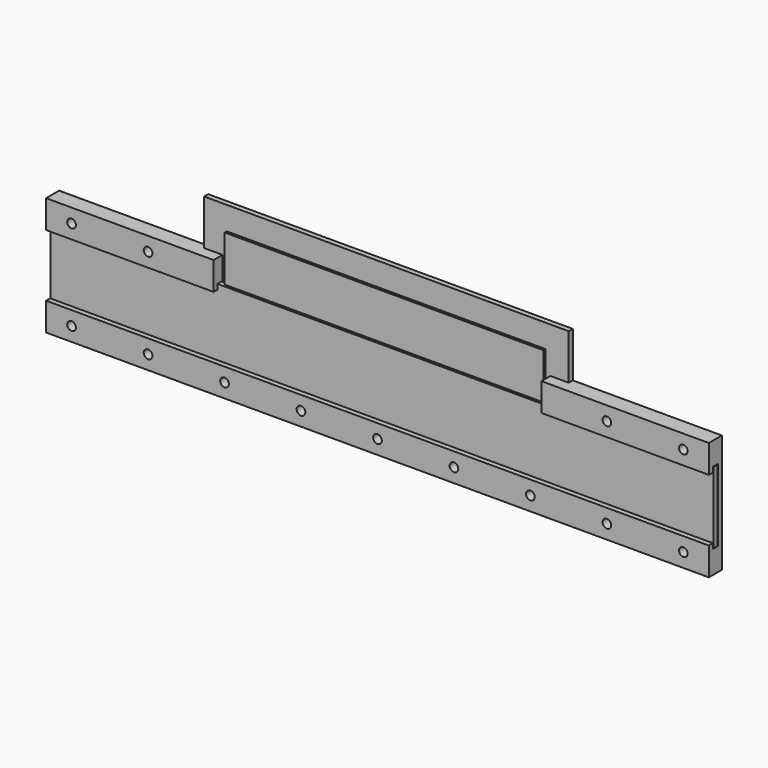
from build123d import *

# Parameters (mm, degrees)
F0_W      = 260
F0_H      = 28
F1_DEPTH  = 2
F2_W      = 125
F2_H      = 18
F3_DEPTH  = 1
F5_DEPTH  = 130
F6_R      = 1.7
F7_DEPTH  = 6.401
F8_W      = 128.6
F8_H      = 21.6
F9_DEPTH  = 6.401
F11_DEPTH = 2


with BuildPart() as f1:
    # F0 (on Front) → F1 (new body)
    with BuildSketch(Plane.XZ):
        with Locations((0, 14)):
            Rectangle(F0_W, F0_H)
    extrude(amount=F1_DEPTH)


with BuildPart() as f3:
    # F2 (on Front) → F3 (new body)
    with BuildSketch(Plane.XZ):
        with Locations((0, 37)):
            Rectangle(F2_W, F2_H)
    extrude(amount=F3_DEPTH)


with BuildPart() as f5:
    # F4 (on Right) → F5 (new body, symmetric)
    with BuildSketch(Plane.YZ):
        Polygon((-2.2, -0.2), (-2.2, 1.8), (-4.2, 1.8), (-4.2, -9.2), (2.2, -9.2), (2.2, 37.2), (-4.2, 37.2), (-4.2, 26.2), (-2.2, 26.2), (-2.2, 28.2), (0.2, 28.2), (0.2, -0.2), align=None)
    extrude(amount=F5_DEPTH, both=True)

    # F6 (on face) → F7 (cut, through all)
    with BuildSketch(Plane.XZ.offset(4.2)):
        with Locations((-120, -3.7)):
            Circle(F6_R)
        with Locations((-120, 31.7)):
            Circle(F6_R)
        with Locations((-90, -3.7)):
            Circle(F6_R)
        with Locations((-90, 31.7)):
            Circle(F6_R)
        with Locations((-60, -3.7)):
            Circle(F6_R)
        with Locations((-60, 31.7)):
            Circle(F6_R)
        with Locations((-30, -3.7)):
            Circle(F6_R)
        with Locations((-30, 31.7)):
            Circle(F6_R)
        with Locations((0, -3.7)):
            Circle(F6_R)
        with Locations((0, 31.7)):
            Circle(F6_R)
        with Locations((30, -3.7)):
            Circle(F6_R)
        with Locations((30, 31.7)):
            Circle(F6_R)
        with Locations((60, -3.7)):
            Circle(F6_R)
        with Locations((60, 31.7)):
            Circle(F6_R)
        with Locations((90, -3.7)):
            Circle(F6_R)
        with Locations((90, 31.7)):
            Circle(F6_R)
        with Locations((120, -3.7)):
            Circle(F6_R)
        with BuildLine():
            ThreePointArc((120, 30), (121.202081528, 30.497918472), (121.7, 31.7))
            ThreePointArc((121.7, 31.7), (121.202081528, 32.902081528), (120, 33.4))
            Line((120, 33.4), (120, 31.7))
            Line((120, 31.7), (120, 30))
        make_face()
        with BuildLine():
            Line((120, 31.7), (120, 33.4))
            ThreePointArc((120, 33.4), (118.3, 31.7), (120, 30))
            Line((120, 30), (120, 31.7))
        make_face()
    extrude(amount=-F7_DEPTH, mode=Mode.SUBTRACT)

    # F8 (on face) → F9 (cut, through all)
    with BuildSketch(Plane.XZ.offset(4.2)):
        with Locations((0, 37)):
            Rectangle(F8_W, F8_H)
    extrude(amount=-F9_DEPTH, mode=Mode.SUBTRACT)

    # F10 (on face) → F11 (join, through all)
    with BuildSketch(Plane.XZ.offset(-0.2)):
        Polygon((-71.5, 55), (-71.5, 37.2), (-64.3, 37.2), (-64.3, 26.2), (64.3, 26.2), (64.3, 37.2), (71.5, 37.2), (71.5, 55), align=None)
    extrude(amount=-F11_DEPTH)


solid = Compound([f1.part, f3.part, f5.part])
